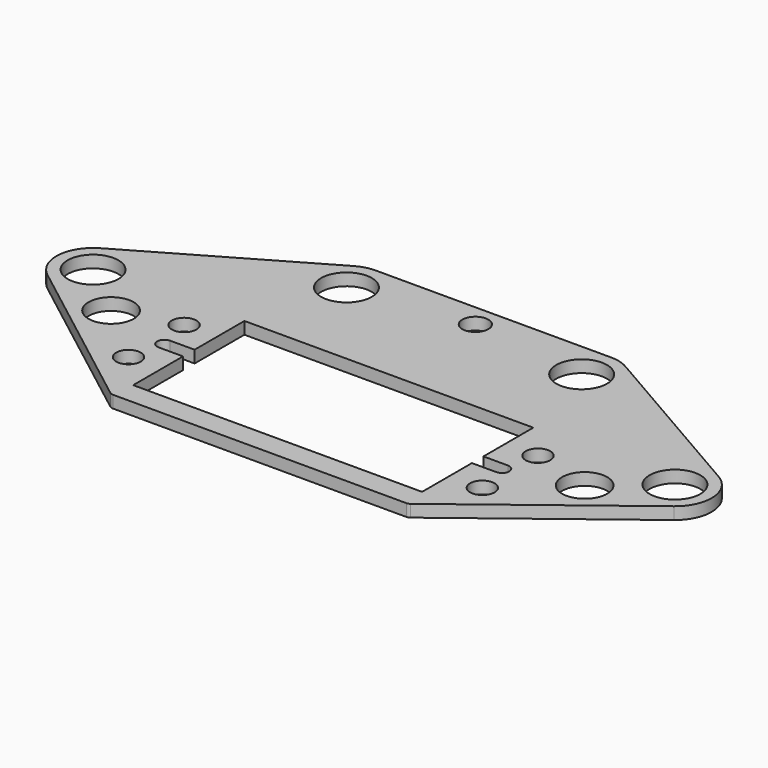
from build123d import *

# Parameters (mm, degrees)
F0_R     = 1.7272
F0_R_2   = 3.175
F0_R_3   = 3.571875
F0_R_4   = 1.8288
F1_DEPTH = 1.70942


with BuildPart() as f1:
    # F0 (on Top) → F1 (new body)
    with BuildSketch(Plane.XY):
        with BuildLine():
            Line((16.542796, 28.167754), (-16.542796, 28.167754))
            ThreePointArc((-16.542796, 28.167754), (-17.87814, 27.991953), (-19.122483, 27.476529))
            Line((-19.122483, 27.476529), (-43.512482, 13.394956))
            ThreePointArc((-43.512482, 13.394956), (-46.081079, 9.264924), (-44.074702, 4.834427))
            Line((-44.074702, 4.834427), (-21.110278, -12.796413))
            ThreePointArc((-21.110278, -12.796413), (-20.891275, -12.913528), (-20.646243, -12.954))
            Line((-20.646243, -12.954), (20.646243, -12.954))
            ThreePointArc((20.646243, -12.954), (20.891275, -12.913528), (21.110278, -12.796413))
            Line((21.110278, -12.796413), (44.074702, 4.834427))
            ThreePointArc((44.074702, 4.834427), (46.081079, 9.264924), (43.512482, 13.394956))
            Line((43.512482, 13.394956), (19.122483, 27.476529))
            ThreePointArc((19.122483, 27.476529), (17.87814, 27.991953), (16.542796, 28.167754))
        make_face()
        with Locations((-24.892, -4.8895)):
            Circle(F0_R, mode=Mode.SUBTRACT)
        with Locations((-33.310818, 2.574715)):
            Circle(F0_R_2, mode=Mode.SUBTRACT)
        with Locations((-24.892, 4.8895)):
            Circle(F0_R, mode=Mode.SUBTRACT)
        with Locations((24.892, -4.8895)):
            Circle(F0_R, mode=Mode.SUBTRACT)
        with BuildLine():
            Line((23.749, -1.016), (20.32, -1.016))
            Line((20.32, -1.016), (20.32, -9.779))
            Line((20.32, -9.779), (-20.32, -9.779))
            Line((-20.32, -9.779), (-20.32, -1.016))
            Line((-20.32, -1.016), (-23.749, -1.016))
            ThreePointArc((-23.749, -1.016), (-24.765, 0), (-23.749, 1.016))
            Line((-23.749, 1.016), (-20.32, 1.016))
            Line((-20.32, 1.016), (-20.32, 9.779))
            Line((-20.32, 9.779), (20.32, 9.779))
            Line((20.32, 9.779), (20.32, 1.016))
            Line((20.32, 1.016), (23.749, 1.016))
            ThreePointArc((23.749, 1.016), (24.765, 0), (23.749, -1.016))
        make_face(mode=Mode.SUBTRACT)
        with Locations((24.892, 4.8895)):
            Circle(F0_R, mode=Mode.SUBTRACT)
        with Locations((33.310818, 2.574715)):
            Circle(F0_R_2, mode=Mode.SUBTRACT)
        with Locations((-40.932795, 8.926807)):
            Circle(F0_R_3, mode=Mode.SUBTRACT)
        with Locations((-16.542796, 23.008379)):
            Circle(F0_R_3, mode=Mode.SUBTRACT)
        with Locations((40.932795, 8.926807)):
            Circle(F0_R_3, mode=Mode.SUBTRACT)
        with Locations((16.542796, 23.008379)):
            Circle(F0_R_3, mode=Mode.SUBTRACT)
        with Locations((0, 24.992754)):
            Circle(F0_R_4, mode=Mode.SUBTRACT)
    extrude(amount=F1_DEPTH)


solid = f1.part
